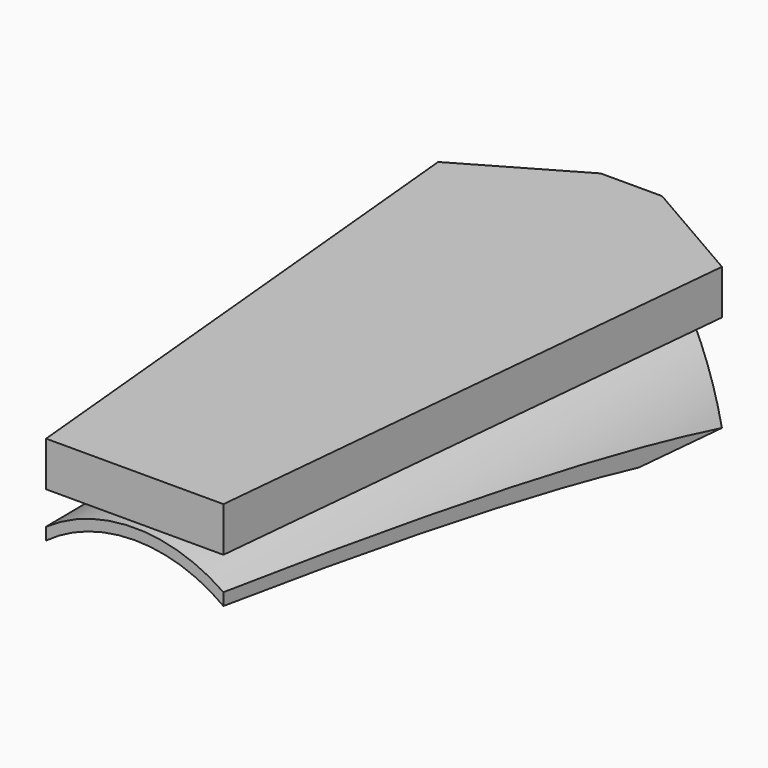
from build123d import *

# Parameters (mm, degrees)
F1_DEPTH = 40
F3_DEPTH = 85.001
F4_DEPTH = 90.001
F6_DEPTH = 40.001


with BuildPart() as f1:
    # F0 (on Top) → F1 (new body)
    with BuildSketch(Plane.XY):
        Polygon((-40, -90), (40, -90), (40, 66.905989), (8.660254, 85), (-8.660254, 85), (-40, 66.905989), align=None)
    extrude(amount=F1_DEPTH)

    # F2 (on Front) → F3 (cut, through all)
    with BuildSketch(Plane.XZ):
        with BuildLine():
            Line((-37.5, 0), (37.5, 0))
            ThreePointArc((37.5, 0), (0, 22.932187), (-37.5, 0))
        make_face()
        with BuildLine():
            ThreePointArc((-40, 0), (0, 25.985793), (40, 0))
            Line((40, 0), (40, 27.425041))
            Line((40, 27.425041), (-40, 27.425041))
            Line((-40, 27.425041), (-40, 0))
        make_face()
    extrude(amount=-F3_DEPTH, mode=Mode.SUBTRACT)

    # F2 (on Front) → F4 (cut, through all)
    with BuildSketch(Plane.XZ):
        with BuildLine():
            Line((-37.5, 0), (37.5, 0))
            ThreePointArc((37.5, 0), (0, 22.932187), (-37.5, 0))
        make_face()
        with BuildLine():
            ThreePointArc((-40, 0), (0, 25.985793), (40, 0))
            Line((40, 0), (40, 27.425041))
            Line((40, 27.425041), (-40, 27.425041))
            Line((-40, 27.425041), (-40, 0))
        make_face()
    extrude(amount=F4_DEPTH, mode=Mode.SUBTRACT)

    # F5 (on face) → F6 (cut, through all)
    with BuildSketch(Plane.XY.offset(40)):
        Polygon((-25, -90), (-40, 66.905989), (-40, -90), align=None)
        Polygon((40, 66.905989), (25, -90), (40, -90), align=None)
    extrude(amount=-F6_DEPTH, mode=Mode.SUBTRACT)


solid = f1.part
